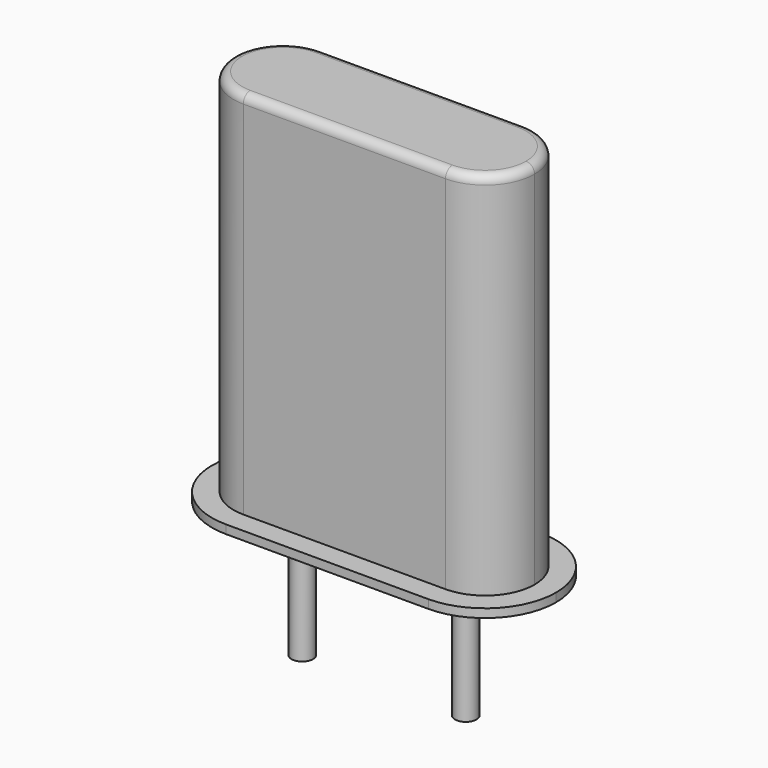
from build123d import *

# Parameters (mm, degrees)
SKETCH_R     = 0.25
PAD_DEPTH    = 3
PAD001_DEPTH = 0.2
PAD002_DEPTH = 8.8
FILLET_R     = 0.2


with BuildPart() as pad:
    # Sketch → Pad (new body)
    with BuildSketch(Plane.XY.offset(0.1)):
        Circle(SKETCH_R)
        with Locations((3.8, 0)):
            Circle(SKETCH_R)
    extrude(amount=-PAD_DEPTH)


with BuildPart() as pad001:
    # Sketch001 → Pad001 (new body)
    with BuildSketch(Plane.XY.offset(0.1)):
        with BuildLine():
            Line((-0.45, 1.65), (4.25, 1.65))
            ThreePointArc((5.9, 0), (5.416726, 1.166726), (4.25, 1.65))
            ThreePointArc((4.25, -1.65), (5.416726, -1.166726), (5.9, 0))
            Line((4.25, -1.65), (-0.45, -1.65))
            ThreePointArc((-2.1, 0), (-1.616726, -1.166726), (-0.45, -1.65))
            ThreePointArc((-0.45, 1.65), (-1.616726, 1.166726), (-2.1, 0))
        make_face()
    extrude(amount=PAD001_DEPTH)


with BuildPart() as fillet_body:
    # Sketch003 → Pad002 (new body)
    with BuildSketch(Plane.XY.offset(0.1)):
        with BuildLine():
            Line((-0.45, 1.15), (4.25, 1.15))
            ThreePointArc((5.4, 0), (5.063173, 0.813173), (4.25, 1.15))
            ThreePointArc((4.25, -1.15), (5.063173, -0.813173), (5.4, 0))
            Line((4.25, -1.15), (-0.45, -1.15))
            ThreePointArc((-1.6, 0), (-1.263173, -0.813173), (-0.45, -1.15))
            ThreePointArc((-0.45, 1.15), (-1.263173, 0.813173), (-1.6, 0))
        make_face()
    extrude(amount=PAD002_DEPTH)

    # Fillet
    fillet_edges = [fillet_body.edges().sort_by_distance(p)[0] for p in [
        (1.9, 1.15, 8.9),
        (-1.263173, 0.813173, 8.9),
        (-1.263173, -0.813173, 8.9),
        (1.9, -1.15, 8.9),
        (5.063173, -0.813173, 8.9),
        (5.063173, 0.813173, 8.9),
    ]]
    fillet(fillet_edges, radius=FILLET_R)


solid = Compound([pad.part, pad001.part, fillet_body.part])
